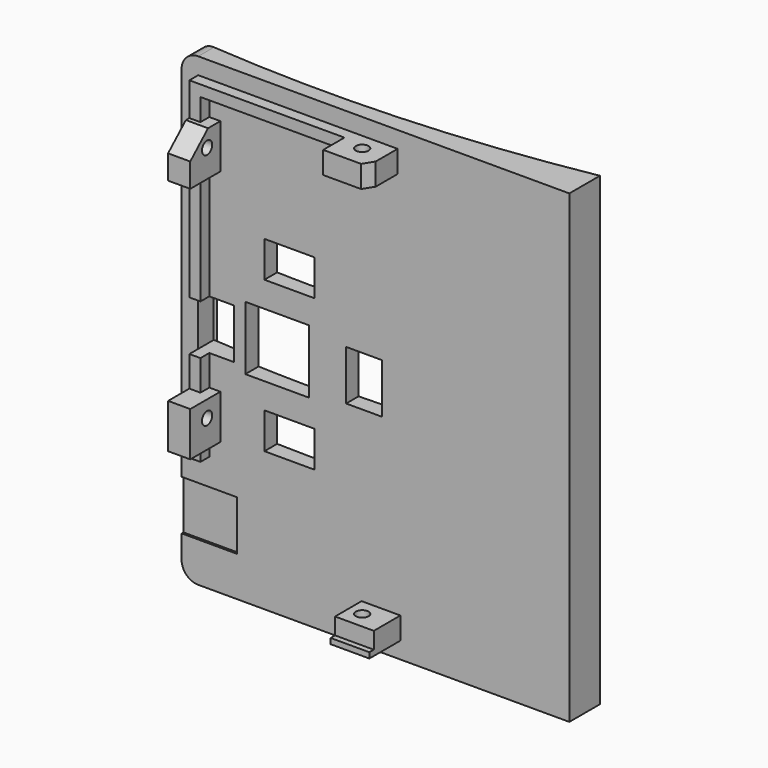
from build123d import *

# Parameters (mm, degrees)
SKETCH009_W             = 84
SKETCH009_H             = 70
PAD002_DEPTH            = 2
SKETCH010_W             = 2
SKETCH010_H             = 7
PAD003_DEPTH            = 2
SKETCH012_W             = 8
SKETCH012_H             = 6.8
PAD004_DEPTH            = 4
SKETCH013_W             = 7
SKETCH013_H             = 6
PAD005_DEPTH            = 4
SKETCH011_W             = 8
SKETCH011_H             = 6.8
PAD006_DEPTH            = 4
SKETCH014_R             = 1.15
POCKET002_DEPTH         = 81.001
SKETCH016_R             = 1.15
POCKET003_DEPTH         = 8.501
SKETCH018_W             = 11.5
SKETCH018_H             = 11.5
POCKET004_DEPTH         = 5
POCKET005_DEPTH         = 5
POCKET006_DEPTH         = 5
SKETCH021_W             = 1
SKETCH021_H             = 7
PAD007_DEPTH            = 1
SKETCH022_W             = 9
SKETCH022_H             = 10
POCKET007_DEPTH         = 0.4
FILLET_R                = 3
BODY002_PITCH_ANGLE     = -90
BODY002_PLACEMENT_ANGLE = 90
PAD001_DEPTH            = 42
SKETCH007_W             = 11.5
SKETCH007_H             = 11.5
POCKET001_DEPTH         = 13
FILLET001_R             = 3
SKETCH025_W             = 6.5
SKETCH025_H             = 9
SKETCH025_W_2           = 9
SKETCH025_H_2           = 6.5
POCKET008_DEPTH         = 3.5


with BuildPart() as back:
    # Sketch009 → Pad002 (new body)
    with BuildSketch(Plane.XY):
        Rectangle(SKETCH009_W, SKETCH009_H)
    extrude(amount=PAD002_DEPTH)

    # Sketch010 (on Face6 of Pad002) → Pad003 (join)
    with BuildSketch(Plane.XY.offset(2)):
        with Locations((-38, -1)):
            Rectangle(SKETCH010_W, SKETCH010_H)
        Polygon((-21, 32), (39, 32), (39, -4), (37, -4), (37, 30), (-21, 30), align=None)
    extrude(amount=PAD003_DEPTH)

    # Sketch012 (on Face15 of Pad003) → Pad004 (join)
    with BuildSketch(Plane.YZ.offset(39)):
        with Locations((0, 5.4)):
            Rectangle(SKETCH012_W, SKETCH012_H)
    extrude(amount=-PAD004_DEPTH)

    # Sketch013 (on Face9 of Pad004) → Pad005 (join)
    with BuildSketch(Plane(origin=(-39, 0, 0), x_dir=(0, -1, 0), z_dir=(-1, 0, 0))):
        with Locations((1, 5)):
            Rectangle(SKETCH013_W, SKETCH013_H)
    extrude(amount=-PAD005_DEPTH)

    # Sketch011 (on Face16 of Pad003) → Pad006 (join)
    with BuildSketch(Plane(origin=(0, 32, 0), x_dir=(-1, 0, 0), z_dir=(0, 1, 0))):
        with Locations((-29, 5.4)):
            Rectangle(SKETCH011_W, SKETCH011_H)
        with Locations((14, 5.4)):
            Rectangle(SKETCH011_W, SKETCH011_H)
    extrude(amount=-PAD006_DEPTH)

    # Sketch014 (on Face44 of Pad006) → Pocket002 (cut, through all)
    with BuildSketch(Plane.YZ.offset(39)):
        with Locations((0, 5)):
            Circle(SKETCH014_R)
    extrude(amount=-POCKET002_DEPTH, mode=Mode.SUBTRACT)

    # Sketch016 → Pocket003 (cut, through all)
    with BuildSketch(Plane.XZ.offset(-26.5)):
        with Locations((-13, 5)):
            Circle(SKETCH016_R)
        with Locations((30, 5)):
            Circle(SKETCH016_R)
    extrude(amount=-POCKET003_DEPTH, mode=Mode.SUBTRACT)

    # Sketch018 (on Face5 of Pocket003) → Pocket004 (cut)
    with BuildSketch(Plane.XY.offset(2)):
        with Locations((0, 17.75)):
            Rectangle(SKETCH018_W, SKETCH018_H)
    extrude(amount=-POCKET004_DEPTH, mode=Mode.SUBTRACT)

    # Sketch019 (on Face31 of Pocket004) → Pocket005 (cut)
    with BuildSketch(Plane.XZ.offset(-28)):
        Polygon((29.125944, 9.042901), (33.258869, 4.499726), (33.258869, 9.042901), align=None)
    extrude(amount=-POCKET005_DEPTH, mode=Mode.SUBTRACT)

    # Sketch020 (on Face36 of Pocket005) → Pocket006 (cut)
    with BuildSketch(Plane(origin=(35, 0, 0), x_dir=(0, -1, 0), z_dir=(-1, 0, 0))):
        Polygon((2.77547, 8.938441), (6.386171, 3.079567), (6.386171, 8.938441), align=None)
    extrude(amount=-POCKET006_DEPTH, mode=Mode.SUBTRACT)

    # Sketch021 (on Face40 of Pocket006) → Pad007 (join)
    with BuildSketch(Plane.XY.offset(8)):
        with Locations((-38.5, -1)):
            Rectangle(SKETCH021_W, SKETCH021_H)
    extrude(amount=PAD007_DEPTH)

    # Sketch022 (on Face5 of Pocket005) → Pocket007 (cut)
    with BuildSketch(Plane.XY.offset(2)):
        with Locations((-30.3, 30)):
            Rectangle(SKETCH022_W, SKETCH022_H)
    extrude(amount=-POCKET007_DEPTH, mode=Mode.SUBTRACT)

    # Fillet
    fillet_edges = [back.edges().sort_by_distance(p)[0] for p in [
        (42, 35, 1),
        (-42, 35, 1),
    ]]
    fillet(fillet_edges, radius=FILLET_R)


with BuildPart() as back_1:
    # Body002 pitch: moved
    add(back.part.rotate(Axis((0, 0, 0), (0, 1, 0)), BODY002_PITCH_ANGLE))


with BuildPart() as back_2:
    # Body002 placement: moved
    add(back_1.part.rotate(Axis((0, 0, 0), (0, 0, 1)), BODY002_PLACEMENT_ANGLE))


with BuildPart() as curve:
    # Sketch006 → Pad001 (new body, symmetric)
    with BuildSketch(Plane.XY):
        with BuildLine():
            ThreePointArc((-35, 1.796592), (0.104214, 0.997658), (35, 4.9))
            Line((35, -0.1), (35, 4.9))
            Line((-35, -0.1), (35, -0.1))
            Line((-35, 1.796592), (-35, -0.1))
        make_face()
    extrude(amount=PAD001_DEPTH, both=True)

    # Sketch007 (on Face3 of Pad001) → Pocket001 (cut)
    with BuildSketch(Plane.XZ.offset(0.1)):
        with Locations((-17.75, 0)):
            Rectangle(SKETCH007_W, SKETCH007_H)
    extrude(amount=-POCKET001_DEPTH, mode=Mode.SUBTRACT)

    # Fillet001
    fillet001_edges = [curve.edges().sort_by_distance(p)[0] for p in [
        (-35, 0.848296, -42),
        (-35, 0.848296, 42),
    ]]
    fillet(fillet001_edges, radius=FILLET001_R)

    # Boolean: union Back
    add(back_2.part)

    # Sketch025 (on Face32 of Boolean) → Pocket008 (cut, symmetric)
    with BuildSketch(Plane.XZ.offset(2)):
        with Locations((-28.75, 0)):
            Rectangle(SKETCH025_W, SKETCH025_H)
        with Locations((-15.55, 13.625)):
            Rectangle(SKETCH025_W_2, SKETCH025_H_2)
        with Locations((-2.05, 0)):
            Rectangle(SKETCH025_W, SKETCH025_H)
        with Locations((-15.55, -13.625)):
            Rectangle(SKETCH025_W_2, SKETCH025_H_2)
    extrude(amount=POCKET008_DEPTH, both=True, mode=Mode.SUBTRACT)


solid = curve.part
